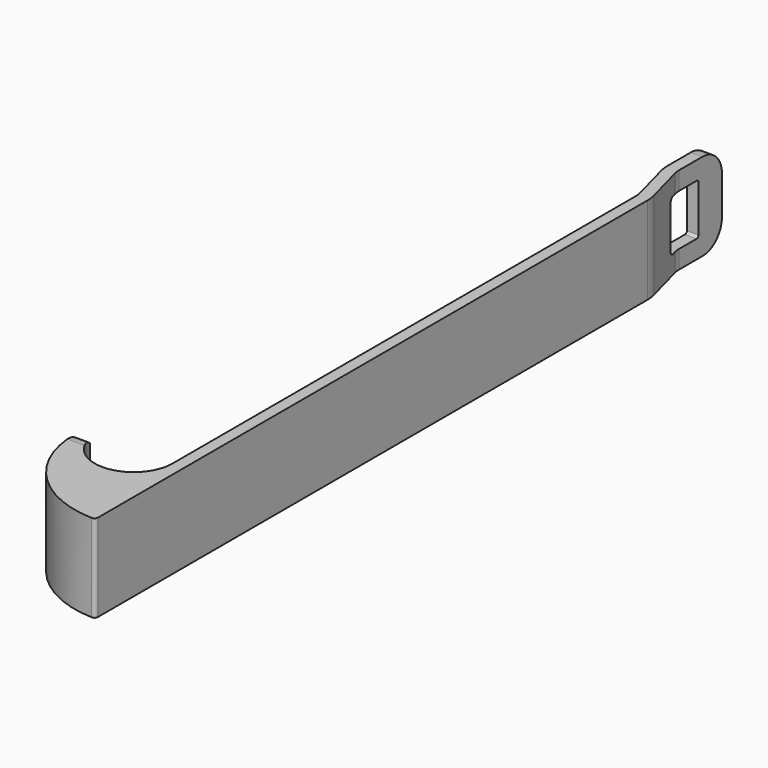
from build123d import *

# Parameters (mm, degrees)
F1_DEPTH = 9
F2_R     = 5
F3_R     = 7.4
F5_START = -10
F5_DEPTH = 20
F7_DEPTH = 15
F8_R     = 5


with BuildPart() as f1:
    # F0 (on Top) → F1 (new body, symmetric)
    with BuildSketch(Plane.XY):
        with BuildLine():
            Line((-5, 0), (-2.4, -9.7033320997))
            Line((-2.4, -9.7033320997), (-2.4, -129.5))
            ThreePointArc((-2.4, -129.5), (-9.5872847082, -137.4586113019), (-18.2348734636, -131.1170212766))
            ThreePointArc((-18.2348734636, -131.1170212766), (-19.7482014958, -130.0072430222), (-21.0059763198, -131.4))
            ThreePointArc((-21.0059763198, -131.4), (-15.1073180305, -145.995204112), (-0.7241308269, -152.3934912697))
            ThreePointArc((-0.7241308269, -152.3934912697), (-0.2136316102, -152.1973413167), (0, -151.6939073197))
            Line((0, -151.6939073197), (0, -9.3873661055))
            Line((0, -9.3873661055), (-2.6, 0.3159659942))
            Line((-2.6, 0.3159659942), (-2.6, 12))
            Line((-2.6, 12), (-5, 12))
            Line((-5, 12), (-5, 0))
        make_face()
    extrude(amount=F1_DEPTH, both=True)

    # F2
    f2_edges = [f1.edges().sort_by_distance(p)[0] for p in [
        (-2.4, -9.703332, 0),
        (-2.6, 0.315966, 0),
    ]]
    fillet(f2_edges, radius=F2_R)

    # F3
    f3_edges = [f1.edges().sort_by_distance(p)[0] for p in [
        (-5, 0, 0),
        (0, -9.387366, 0),
    ]]
    fillet(f3_edges, radius=F3_R)

    # F4 (on Right) → F5 (cut)
    with BuildSketch(Plane.YZ.offset(F5_START)):
        with BuildLine():
            ThreePointArc((-129.4, -5), (-130.5715728753, -7.8284271247), (-133.4, -9))
            Line((-133.4, -9), (-133.4, -10))
            Line((-133.4, -10), (-128.4, -10))
            Line((-128.4, -10), (-128.4, 10))
            Line((-128.4, 10), (-133.4, 10))
            Line((-133.4, 10), (-133.4, 9))
            ThreePointArc((-133.4, 9), (-130.5715728753, 7.8284271247), (-129.4, 5))
            Line((-129.4, 5), (-129.4, -5))
        make_face()
    extrude(amount=-F5_DEPTH, mode=Mode.SUBTRACT)

    # F6 (on Right) → F7 (cut)
    with BuildSketch(Plane.YZ):
        with BuildLine():
            ThreePointArc((5.5, -5.25), (5.8535533906, -5.1035533906), (6, -4.75))
            Line((6, -4.75), (6, 4.75))
            ThreePointArc((6, 4.75), (5.8535533906, 5.1035533906), (5.5, 5.25))
            Line((5.5, 5.25), (-1, 5.25))
            ThreePointArc((-1, 5.25), (-1.7071067812, 4.9571067812), (-2, 4.25))
            Line((-2, 4.25), (-2, -4.25))
            ThreePointArc((-2, -4.25), (-1.7071067812, -4.9571067812), (-1, -5.25))
            Line((-1, -5.25), (5.5, -5.25))
        make_face()
    extrude(amount=-F7_DEPTH, mode=Mode.SUBTRACT)

    # F8
    f8_edges = [f1.edges().sort_by_distance(p)[0] for p in [
        (-3.8, 12, -9),
        (-3.8, 12, 9),
    ]]
    fillet(f8_edges, radius=F8_R)


solid = f1.part
